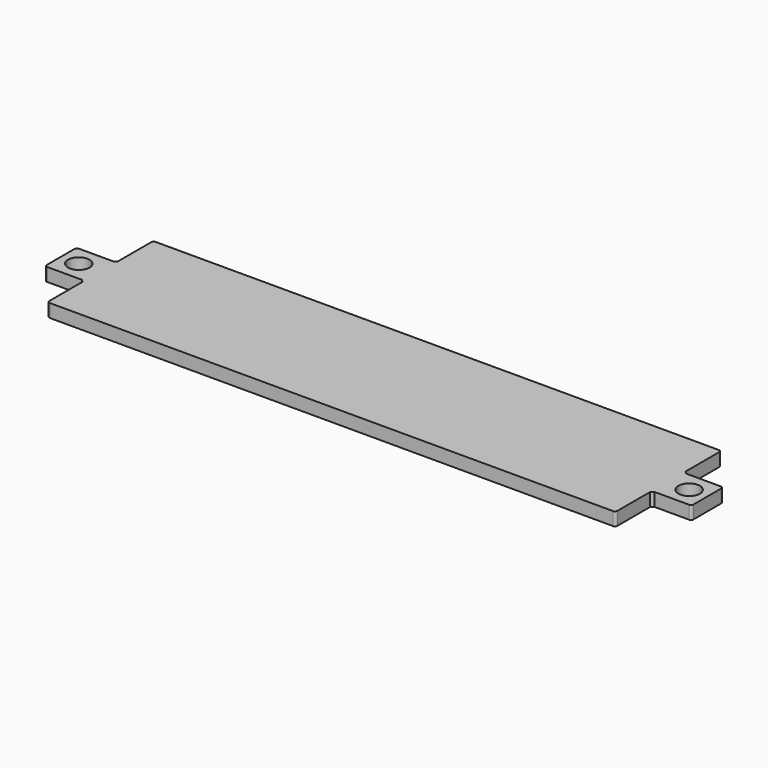
from build123d import *

# Parameters (mm, degrees)
F1_DEPTH = 2.032
F0_W     = 6.096
F0_H     = 6.096
F0_R     = 1.651
F2_DEPTH = 2.032
F3_DEPTH = 2.032
F4_R     = 0.381
F5_SIZE  = 0.381


with BuildPart() as f1:
    # F0 (on Top) → F1 (new body)
    with BuildSketch(Plane.XY):
        Polygon((-43.688, -10.1727), (43.688, -10.1727), (43.688, -3.175), (43.688, 2.921), (43.688, 10.1727), (-43.688, 10.1727), (-43.688, 3.048), (-43.688, -3.048), align=None)
    extrude(amount=F1_DEPTH)

    # F0 (on Top) → F2 (join)
    with BuildSketch(Plane.XY):
        with Locations((46.736, -0.127)):
            Rectangle(F0_W, F0_H)
        with Locations((46.99, -0.127)):
            Circle(F0_R, mode=Mode.SUBTRACT)
    extrude(amount=F2_DEPTH)

    # F0 (on Top) → F3 (join)
    with BuildSketch(Plane.XY):
        with Locations((-46.736, 0)):
            Rectangle(F0_W, F0_H)
        with Locations((-46.99, 0)):
            Circle(F0_R, mode=Mode.SUBTRACT)
    extrude(amount=F3_DEPTH)

    # F4
    f4_edges = [f1.edges().sort_by_distance(p)[0] for p in [
        (43.688, -10.1727, 1.016),
        (43.688, 10.1727, 1.016),
        (-43.688, -10.1727, 1.016),
        (-43.688, 10.1727, 1.016),
        (-49.784, 3.048, 1.016),
        (-49.784, -3.048, 1.016),
        (49.784, -3.175, 1.016),
        (49.784, 2.921, 1.016),
    ]]
    fillet(f4_edges, radius=F4_R)

    # F5
    f5_edges = [f1.edges().sort_by_distance(p)[0] for p in [
        (43.688, 2.921, 1.016),
        (43.688, -3.175, 1.016),
        (-43.688, -3.048, 1.016),
        (-43.688, 3.048, 1.016),
    ]]
    chamfer(f5_edges, length=F5_SIZE)


solid = f1.part
